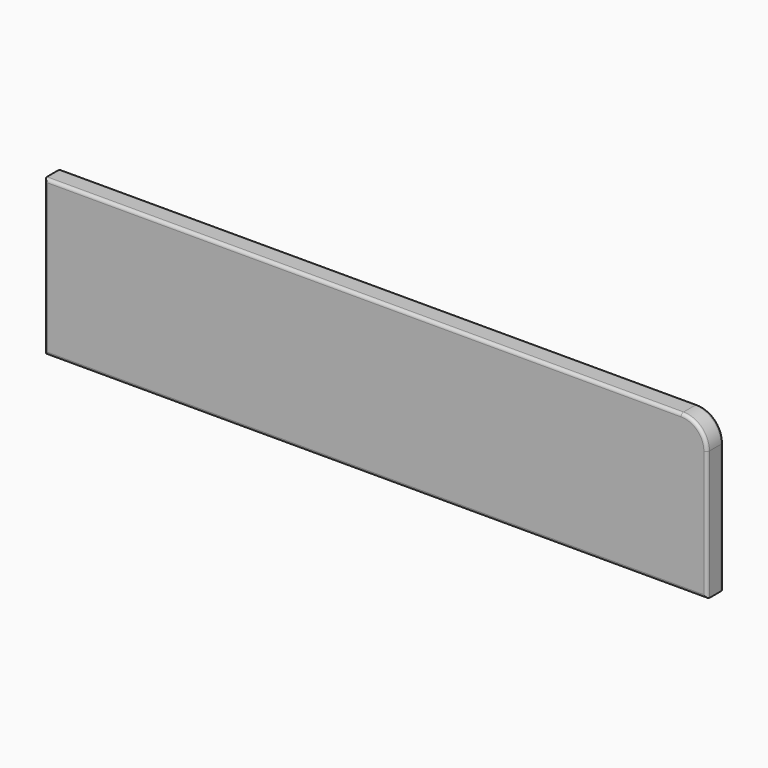
from build123d import *

# Parameters (mm, degrees)
F1_DEPTH = 20
F3_R     = 3


with BuildPart() as f1:
    # F0 (on Front) → F1 (new body)
    with BuildSketch(Plane.XZ):
        with BuildLine():
            Line((234.931585, -45.82393), (-380.068415, -45.82393))
            Line((-380.068415, -45.82393), (-380.068415, -195.82393))
            Line((-380.068415, -195.82393), (259.931585, -195.82393))
            Line((259.931585, -195.82393), (259.931585, -70.82393))
            ThreePointArc((259.931585, -70.82393), (252.609255, -53.14626), (234.931585, -45.82393))
        make_face()
    extrude(amount=F1_DEPTH)

    # F3
    f3_edges = [f1.edges().sort_by_distance(p)[0] for p in [
        (259.931585, 0, -133.32393),
        (252.609255, 0, -53.14626),
        (-72.568415, 0, -45.82393),
        (-380.068415, 0, -120.82393),
        (-60.068415, 0, -195.82393),
        (259.931585, -20, -133.32393),
        (252.609255, -20, -53.14626),
        (-72.568415, -20, -45.82393),
        (-380.068415, -20, -120.82393),
        (-60.068415, -20, -195.82393),
    ]]
    fillet(f3_edges, radius=F3_R)


solid = f1.part
